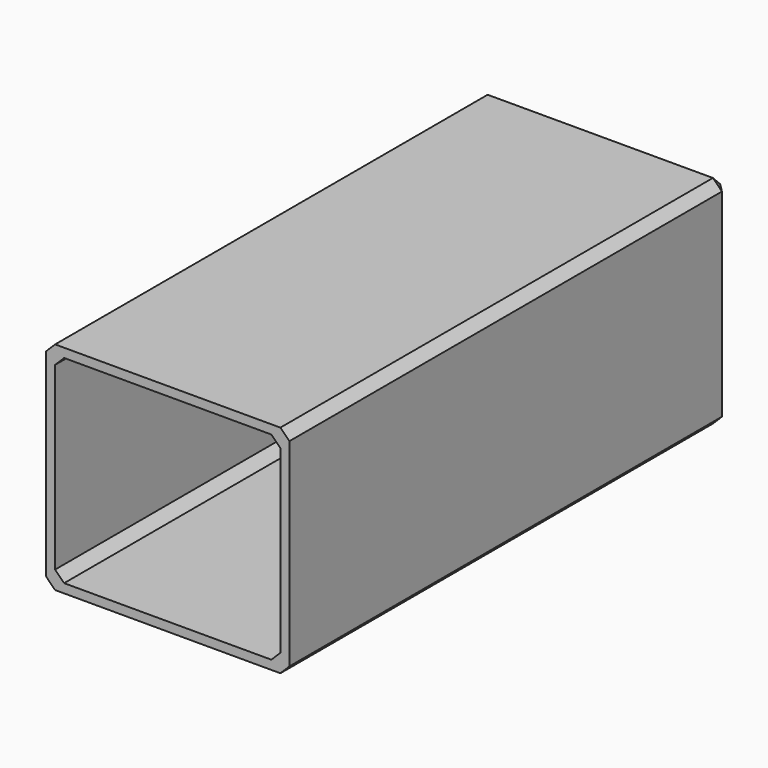
from build123d import *

# Parameters (mm, degrees)
F0_W     = 27
F0_H     = 24
F0_W_2   = 25
F0_H_2   = 22
F1_DEPTH = 60
F2_DEPTH = 1
F3_SIZE  = 1
F5_DEPTH = 25


with BuildPart() as f1:
    # F0 (on Front) → F1 (new body)
    with BuildSketch(Plane.XZ):
        with Locations((12.5, -11)):
            Rectangle(F0_W, F0_H)
        with Locations((12.5, -11)):
            Rectangle(F0_W_2, F0_H_2, mode=Mode.SUBTRACT)
    extrude(amount=F1_DEPTH)

    # F0 (on Front) → F2 (join)
    with BuildSketch(Plane.XZ):
        with Locations((12.5, -11)):
            Rectangle(F0_W, F0_H)
        with Locations((12.5, -11)):
            Rectangle(F0_W_2, F0_H_2, mode=Mode.SUBTRACT)
        with Locations((12.5, -11)):
            Rectangle(F0_W_2, F0_H_2)
    extrude(amount=-F2_DEPTH)

    # F3
    f3_edges = [f1.edges().sort_by_distance(p)[0] for p in [
        (0, -30, 0),
        (12.5, 0, 0),
        (0, 0, -11),
        (0, -30, -22),
        (12.5, 0, -22),
        (25, -30, -22),
        (25, 0, -11),
        (25, -30, 0),
        (-1, -29.5, 1),
        (-1, -29.5, -23),
        (-1, 1, -11),
        (26, -29.5, -23),
        (26, -29.5, 1),
        (12.5, 1, -23),
        (26, 1, -11),
        (12.5, 1, 1),
    ]]
    chamfer(f3_edges, length=F3_SIZE)

    # F4 (on face) → F5 (cut)
    with BuildSketch(Plane(origin=(0, 1, 0), x_dir=(-1, 0, 0), z_dir=(0, 1, 0))):
        Polygon((-19.20536533, -11), (-19.20536533, -13), (-5.20536533, -13), (-5.20536533, -9), (-19.20536533, -9), align=None)
    extrude(amount=-F5_DEPTH, mode=Mode.SUBTRACT)


solid = f1.part
